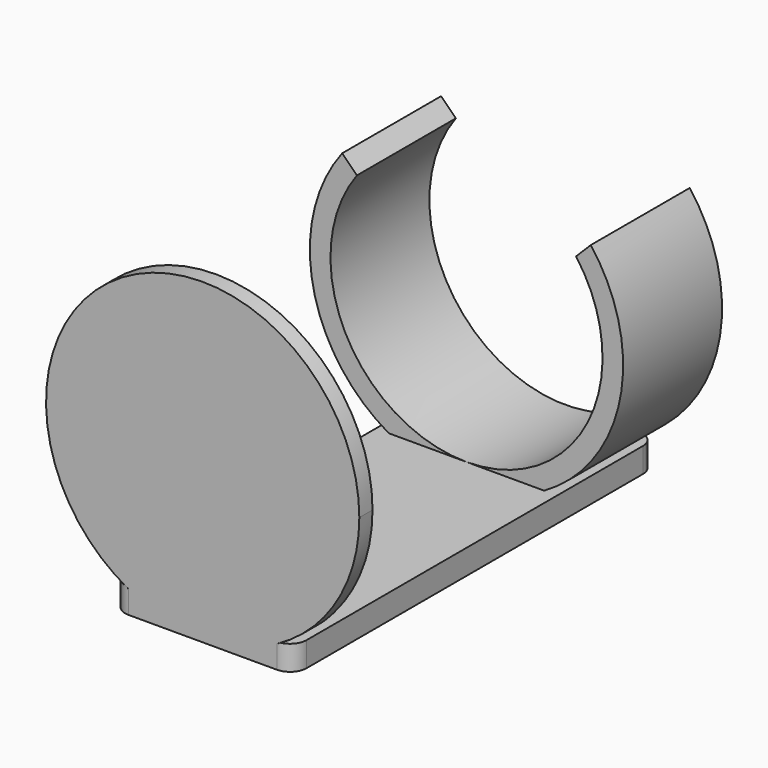
from build123d import *

# Parameters (mm, degrees)
F0_W     = 22
F0_H     = 55
F1_DEPTH = 3
F2_R     = 2
F4_DEPTH = 2
F5_R     = 4
F6_R     = 19
F6_R_2   = 16.5
F7_DEPTH = 15
F9_DEPTH = 25


with BuildPart() as f1:
    # F0 (on Top) → F1 (new body)
    with BuildSketch(Plane.XY):
        Rectangle(F0_W, F0_H)
    extrude(amount=F1_DEPTH)

    # F2
    f2_edges = [f1.edges().sort_by_distance(p)[0] for p in [
        (-11, 27.5, 1.5),
        (11, 27.5, 1.5),
        (11, -27.5, 1.5),
        (-11, -27.5, 1.5),
    ]]
    fillet(f2_edges, radius=F2_R)

    # F3 (on face) → F4 (join)
    with BuildSketch(Plane.XZ.offset(27.5)):
        with BuildLine():
            Line((-9, 3), (-4.24e-08, 3))
            Line((-4.24e-08, 3), (9, 3))
            Line((9, 3), (9, 2.7667994693))
            ThreePointArc((9, 2.7667994693), (16.3095064303, 9.7532056552), (19, 19.5))
            ThreePointArc((19, 19.5), (-9.7467943448, 35.8095064303), (-9, 2.7667994693))
            Line((-9, 2.7667994693), (-9, 3))
        make_face()
        with BuildLine():
            ThreePointArc((-4.24e-08, 3), (-11.6672618746, 31.1672619046), (16.5, 19.5))
            ThreePointArc((16.5, 19.5), (11.6672618746, 7.8327380954), (-4.24e-08, 3))
        make_face(mode=Mode.SUBTRACT)
        with BuildLine():
            ThreePointArc((-4.24e-08, 3), (11.6672618746, 7.8327380954), (16.5, 19.5))
            ThreePointArc((16.5, 19.5), (-11.6672618746, 31.1672619046), (-4.24e-08, 3))
        make_face()
    extrude(amount=-F4_DEPTH)

    # F5
    f5_edges = [f1.edges().sort_by_distance(p)[0] for p in [
        (0, -25.5, 3),
    ]]
    fillet(f5_edges, radius=F5_R)

    # F6 (on face) → F7 (join)
    with BuildSketch(Plane(origin=(0, 27.5, 0), x_dir=(-1, 0, 0), z_dir=(0, 1, 0))):
        with Locations((0, 19.5)):
            Circle(F6_R)
        with Locations((0, 19.5)):
            Circle(F6_R_2, mode=Mode.SUBTRACT)
    extrude(amount=-F7_DEPTH)

    # F8 (on face) → F9 (cut)
    with BuildSketch(Plane(origin=(0, 27.5, 0), x_dir=(-1, 0, 0), z_dir=(0, 1, 0))):
        Polygon((-10.5, 26.4886836855), (0, 26.4886836855), (10.5, 26.4886836855), (23.2279220614, 39.2166057468), (-23.2279220614, 39.2166057468), align=None)
    extrude(amount=-F9_DEPTH, mode=Mode.SUBTRACT)


solid = f1.part
